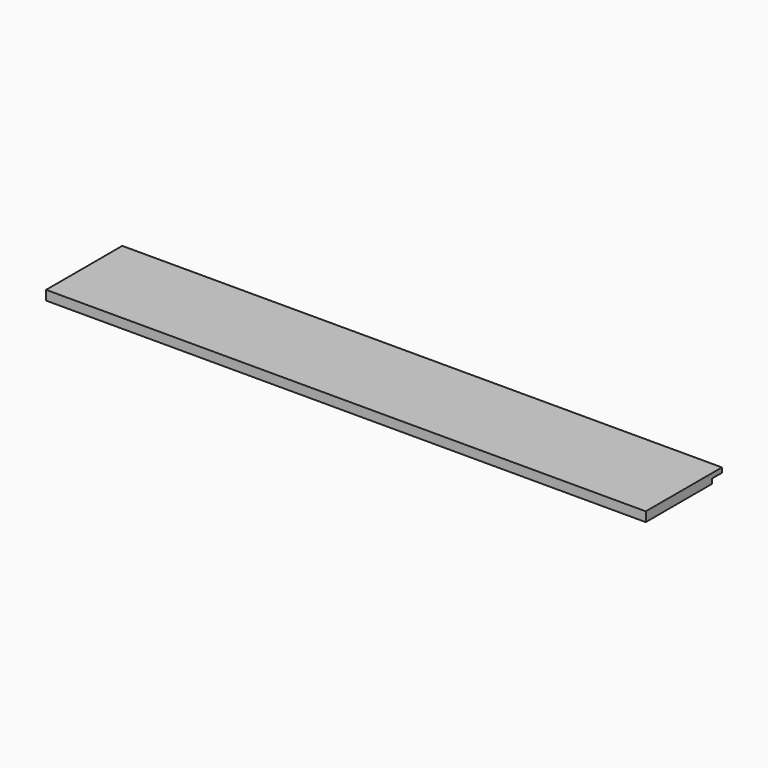
from build123d import *

# Parameters (mm, degrees)
F0_W     = 190.5
F0_H     = 19.05
F1_DEPTH = 1200.15
F2_W     = 1200.15
F2_H     = 9.525
F3_DEPTH = 25.4


with BuildPart() as f1:
    # F0 (on Right) → F1 (new body)
    with BuildSketch(Plane.YZ):
        with Locations((95.25, 9.525)):
            Rectangle(F0_W, F0_H)
    extrude(amount=F1_DEPTH)

    # F2 (on face) → F3 (cut)
    with BuildSketch(Plane(origin=(0, 190.5, 0), x_dir=(-1, 0, 0), z_dir=(0, 1, 0))):
        with Locations((-600.075, 4.7625)):
            Rectangle(F2_W, F2_H)
    extrude(amount=-F3_DEPTH, mode=Mode.SUBTRACT)


solid = f1.part
